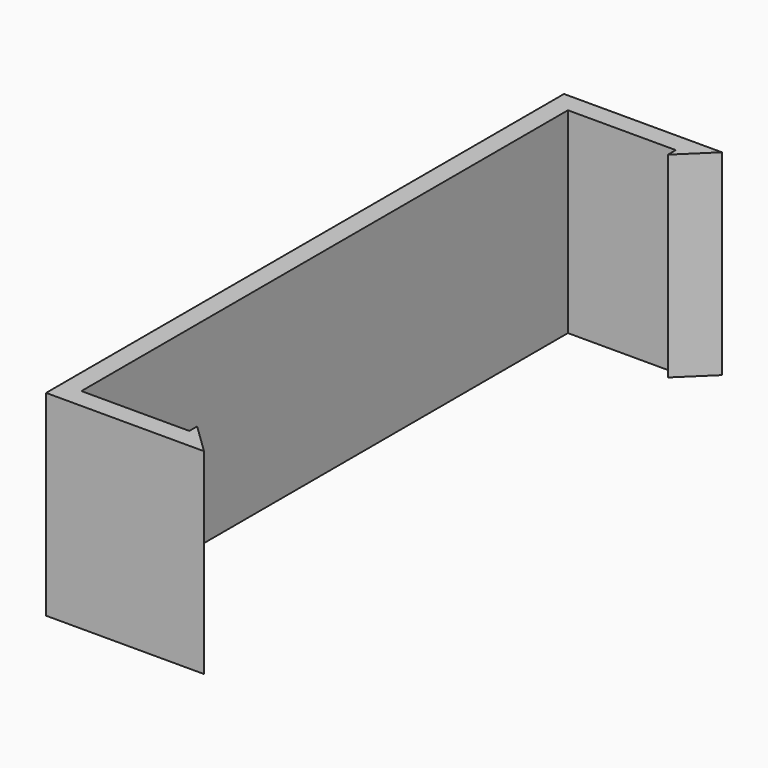
from build123d import *

# Parameters (mm, degrees)
F1_DEPTH = 20
F3_DEPTH = 3
F4_R     = 5
F5_DEPTH = 3


with BuildPart() as f1:
    # F0 (on Top) → F1 (new body)
    with BuildSketch(Plane.XY):
        Polygon((0.95669, 33), (0.95669, 0), (0.95669, -33), (17.058177, -33), (13.95669, -30), (13.95669, -31), (2.95669, -31), (2.95669, 0), (2.95669, 31), (13.95669, 31), (13.95669, 30), (17.058177, 33), align=None)
    extrude(amount=F1_DEPTH)

    # F2 (on face) → F3 (join)
    with BuildSketch(Plane(origin=(0.95669, 0, 0), x_dir=(0, -1, 0), z_dir=(-1, 0, 0))):
        with BuildLine():
            ThreePointArc((2.5, 10), (1.767767, 11.767767), (0, 12.5))
            Line((0, 12.5), (0, 10))
            Line((0, 10), (2.5, 10))
        make_face()
        with BuildLine():
            Line((0, 10), (0, 12.5))
            ThreePointArc((0, 12.5), (-1.767767, 11.767767), (-2.5, 10))
            Line((-2.5, 10), (0, 10))
        make_face()
        with BuildLine():
            Line((2.5, 10), (0, 10))
            Line((0, 10), (0, 7.5))
            ThreePointArc((0, 7.5), (1.767767, 8.232233), (2.5, 10))
        make_face()
        with BuildLine():
            Line((0, 7.5), (0, 10))
            Line((0, 10), (-2.5, 10))
            ThreePointArc((-2.5, 10), (-1.767767, 8.232233), (0, 7.5))
        make_face()
    extrude(amount=F3_DEPTH)

    # F4 (on face) → F5 (join)
    with BuildSketch(Plane(origin=(-2.04331, 0, 0), x_dir=(0, -1, 0), z_dir=(-1, 0, 0))):
        with Locations((0, 10)):
            Circle(F4_R)
    extrude(amount=F5_DEPTH)


solid = f1.part
